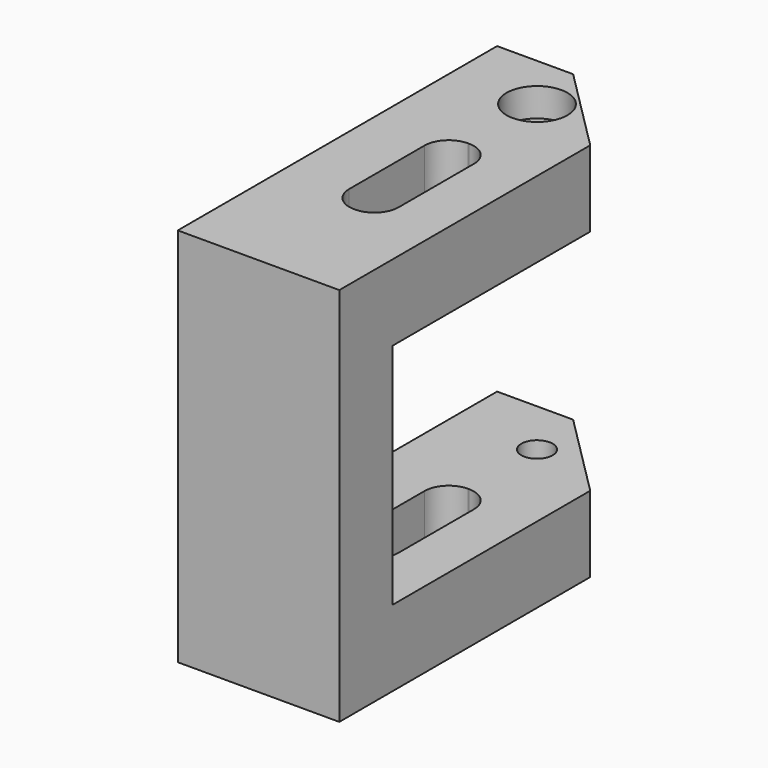
from build123d import *

# Parameters (mm, degrees)
BOX014_W              = 5.2
BOX014_H              = 15
BOX014_DEPTH          = 67
FILLET001_R           = 2.55
BOX021_W              = 17
BOX021_H              = 40
BOX021_DEPTH          = 24
CYLINDER005_R         = 3.2
CYLINDER005_DEPTH     = 4
CYLINDER007_R         = 1.9
CYLINDER007_DEPTH     = 6
CYLINDER006_R         = 1.65
CYLINDER006_DEPTH     = 54
BOX006_W              = 17
BOX006_H              = 42
BOX006_DEPTH          = 40
CHAMFER020026003_SIZE = 9


with BuildPart() as fillet001:
    # Box014 → Box014 (new body)
    with BuildSketch(Plane(origin=(6.4, 15, -6), x_dir=(1, 0, 0), z_dir=(0, 0, 1))):
        with Locations((2.6, 7.5)):
            Rectangle(BOX014_W, BOX014_H)
    extrude(amount=BOX014_DEPTH)

    # Fillet001
    fillet001_edges = [fillet001.edges().sort_by_distance(p)[0] for p in [
        (6.4, 15, 27.5),
        (6.4, 30, 27.5),
        (11.6, 15, 27.5),
        (11.6, 30, 27.5),
    ]]
    fillet(fillet001_edges, radius=FILLET001_R)


with BuildPart() as cube021:
    # Box021 → Box021 (new body)
    with BuildSketch(Plane(origin=(0, 10, 2), x_dir=(1, 0, 0), z_dir=(0, 0, 1))):
        with Locations((8.5, 20)):
            Rectangle(BOX021_W, BOX021_H)
    extrude(amount=BOX021_DEPTH)


with BuildPart() as cylinder005:
    # Cylinder005 → Cylinder005 (new body)
    with BuildSketch(Plane(origin=(9, 39, 31), x_dir=(1, 0, 0), z_dir=(0, 0, 1))):
        Circle(CYLINDER005_R)
    extrude(amount=CYLINDER005_DEPTH)


with BuildPart() as cylinder007:
    # Cylinder007 → Cylinder007 (new body)
    with BuildSketch(Plane(origin=(9, 39, -6), x_dir=(1, 0, 0), z_dir=(0, 0, 1))):
        Circle(CYLINDER007_R)
    extrude(amount=CYLINDER007_DEPTH)


with BuildPart() as cylinder006:
    # Cylinder006 → Cylinder006 (new body)
    with BuildSketch(Plane(origin=(9, 39, -12), x_dir=(1, 0, 0), z_dir=(0, 0, 1))):
        Circle(CYLINDER006_R)
    extrude(amount=CYLINDER006_DEPTH)


with BuildPart() as cut002002002007004004001006016:
    # Box006 → Box006 (new body)
    with BuildSketch(Plane(origin=(0, 3, -6), x_dir=(1, 0, 0), z_dir=(0, 0, 1))):
        with Locations((8.5, 21)):
            Rectangle(BOX006_W, BOX006_H)
    extrude(amount=BOX006_DEPTH)

    # Chamfer020026003
    chamfer020026003_edges = [cut002002002007004004001006016.edges().sort_by_distance(p)[0] for p in [
        (17, 45, 14),
    ]]
    chamfer(chamfer020026003_edges, length=CHAMFER020026003_SIZE)

    # Cut002002002007004004001006009: cut Cylinder006
    add(cylinder006.part, mode=Mode.SUBTRACT)

    # Cut002002002007004004001006010: cut Cylinder007
    add(cylinder007.part, mode=Mode.SUBTRACT)

    # Cut002002002007004004001006011: cut Cylinder005
    add(cylinder005.part, mode=Mode.SUBTRACT)

    # Cut002002002007004004001006012: cut Cube021
    add(cube021.part, mode=Mode.SUBTRACT)

    # Cut002002002007004004001006016: cut Fillet001
    add(fillet001.part, mode=Mode.SUBTRACT)


solid = cut002002002007004004001006016.part
